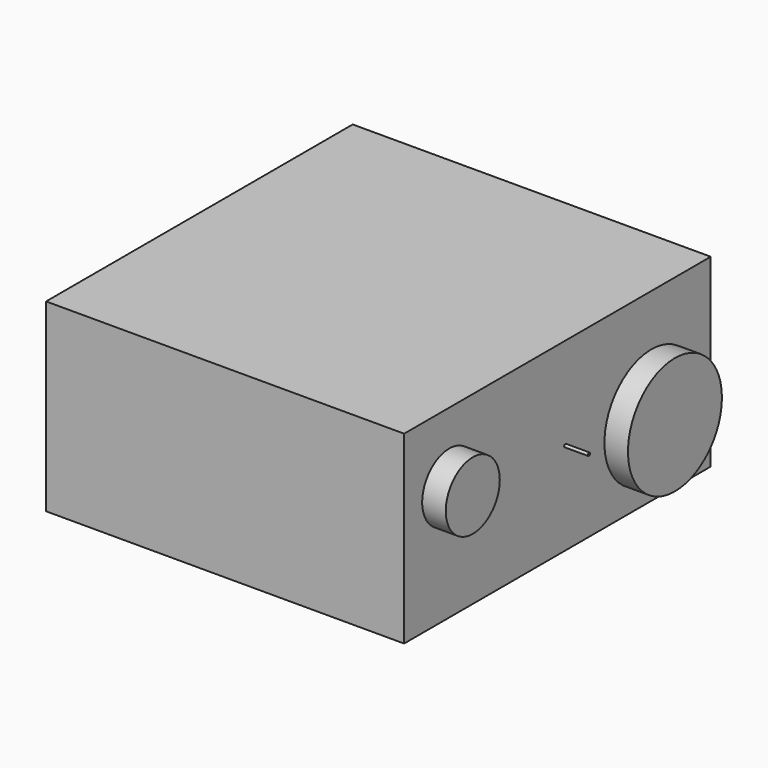
from build123d import *

# Parameters (mm, degrees)
F0_R     = 9.653585
F0_R_2   = 383.182839
F0_R_3   = 220.267255
F1_DEPTH = 153.935909
F2_W     = 2501.68705
F2_H     = 1206.104756
F3_DEPTH = 2337.06665


with BuildPart() as f1:
    # F0 (on Right) → F1 (new body)
    with BuildSketch(Plane.YZ):
        with Locations((64.594597, 0)):
            Circle(F0_R)
        with Locations((766.505957, -115.284562)):
            Circle(F0_R_2)
        with Locations((-883.135796, 148.143992)):
            Circle(F0_R_3)
    extrude(amount=-F1_DEPTH)


with BuildPart() as f3:
    # F2 (on face) → F3 (new body)
    with BuildSketch(Plane(origin=(-153.935909, 0, 0), x_dir=(0, -1, 0), z_dir=(-1, 0, 0))):
        Rectangle(F2_W, F2_H)
    extrude(amount=F3_DEPTH)


solid = Compound([f1.part, f3.part])
